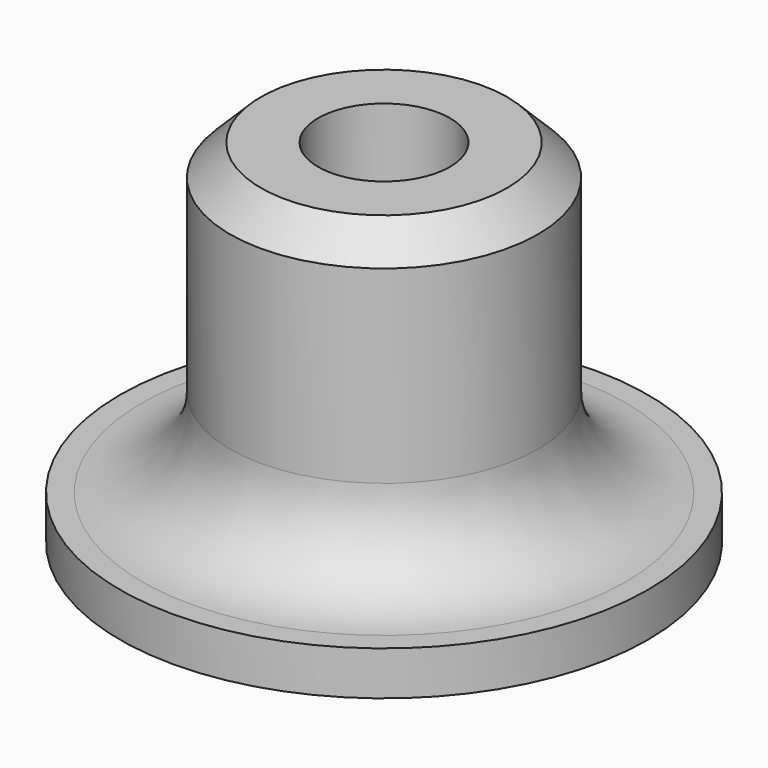
from build123d import *

# Parameters (mm, degrees)
F0_R     = 6
F0_R_2   = 3.5
F0_R_3   = 1.5
F1_DEPTH = 1
F2_DEPTH = 8
F3_R     = 2
F4_SIZE  = 0.7


with BuildPart() as f1:
    # F0 (on Top) → F1 (new body)
    with BuildSketch(Plane.XY):
        Circle(F0_R)
        Circle(F0_R_2, mode=Mode.SUBTRACT)
        Circle(F0_R_2)
        Circle(F0_R_3, mode=Mode.SUBTRACT)
        Circle(F0_R_3)
    extrude(amount=F1_DEPTH)

    # F0 (on Top) → F2 (join)
    with BuildSketch(Plane.XY):
        Circle(F0_R_2)
        Circle(F0_R_3, mode=Mode.SUBTRACT)
    extrude(amount=F2_DEPTH)

    # F3
    f3_edges = [f1.edges().sort_by_distance(p)[0] for p in [
        (-3.5, 0, 1),
    ]]
    fillet(f3_edges, radius=F3_R)

    # F4
    f4_edges = [f1.edges().sort_by_distance(p)[0] for p in [
        (-3.5, 0, 8),
    ]]
    chamfer(f4_edges, length=F4_SIZE)


solid = f1.part
